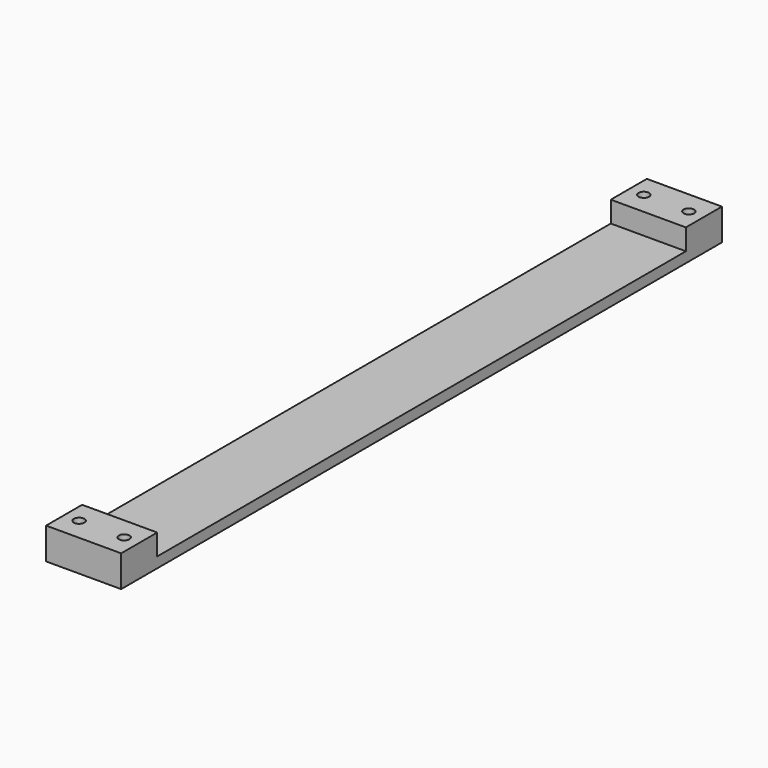
from build123d import *

# Parameters (mm, degrees)
F0_W     = 60
F0_H     = 28
F1_DEPTH = 50
F2_R     = 7
F3_DEPTH = 50
F4_R     = 7
F5_DEPTH = 50


with BuildPart() as f1:
    # F0 (on Right) → F1 (new body, symmetric)
    with BuildSketch(Plane.YZ):
        Polygon((-502.916585, 14), (-502.916585, 0), (497.083415, 0), (497.083415, 14), (437.083415, 14), (-442.916585, 14), align=None)
        with Locations((-472.916585, 28)):
            Rectangle(F0_W, F0_H)
        with Locations((467.083415, 28)):
            Rectangle(F0_W, F0_H)
    extrude(amount=F1_DEPTH, both=True)

    # F2 (on face) → F3 (cut, symmetric)
    with BuildSketch(Plane.XY.offset(42)):
        with Locations((-30, -472.916585)):
            Circle(F2_R)
        with BuildLine():
            ThreePointArc((37, -472.916585), (30, -465.916585), (23, -472.916585))
            ThreePointArc((23, -472.916585), (30, -479.916585), (37, -472.916585))
        make_face()
    extrude(amount=F3_DEPTH, both=True, mode=Mode.SUBTRACT)

    # F4 (on face) → F5 (cut, symmetric)
    with BuildSketch(Plane.XY.offset(42)):
        with Locations((-30, 467.083415)):
            Circle(F4_R)
        with BuildLine():
            ThreePointArc((37, 467.083415), (30, 474.083415), (23, 467.083415))
            ThreePointArc((23, 467.083415), (30, 460.083415), (37, 467.083415))
        make_face()
    extrude(amount=F5_DEPTH, both=True, mode=Mode.SUBTRACT)


solid = f1.part
